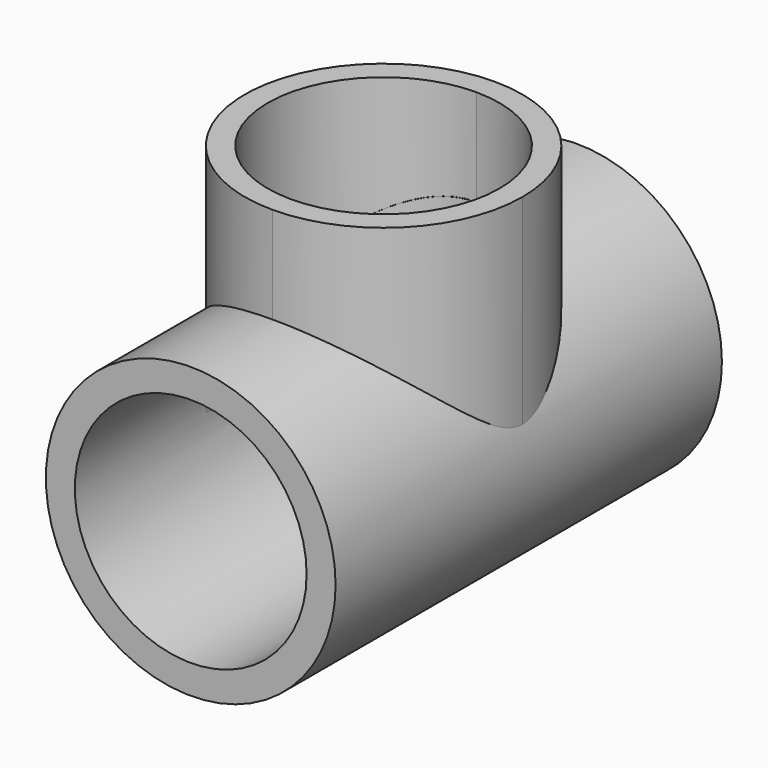
from build123d import *

# Parameters (mm, degrees)
F0_R     = 30.48
F0_R_2   = 24.384
F1_DEPTH = 101.6
F3_DEPTH = 50.8
F4_R     = 24.311885
F5_DEPTH = 55.372
F6_R     = 24.369634
F7_DEPTH = 105.664


with BuildPart() as f1:
    # F0 (on Front) → F1 (new body)
    with BuildSketch(Plane.XZ):
        Circle(F0_R)
        Circle(F0_R_2, mode=Mode.SUBTRACT)
    extrude(amount=F1_DEPTH)

    # F2 (on Top) → F3 (join)
    with BuildSketch(Plane.XY):
        with BuildLine():
            ThreePointArc((29.21, -50.873108), (20.654589, -30.218519), (0, -21.663108))
            Line((0, -21.663108), (0, -26.489108))
            ThreePointArc((0, -26.489108), (17.242092, -33.631016), (24.384, -50.873108))
            ThreePointArc((24.384, -50.873108), (17.242092, -68.1152), (0, -75.257108))
            Line((0, -75.257108), (0, -80.083108))
            ThreePointArc((0, -80.083108), (20.654589, -71.527697), (29.21, -50.873108))
        make_face()
        with BuildLine():
            Line((0, -26.489108), (0, -21.663108))
            ThreePointArc((0, -21.663108), (-29.21, -50.873108), (0, -80.083108))
            Line((0, -80.083108), (0, -75.257108))
            ThreePointArc((0, -75.257108), (-24.384, -50.873108), (0, -26.489108))
        make_face()
    extrude(amount=F3_DEPTH)

    # F4 (on face) → F5 (cut)
    with BuildSketch(Plane.XY.offset(50.8)):
        with Locations((0, -50.873108)):
            Circle(F4_R)
    extrude(amount=-F5_DEPTH, mode=Mode.SUBTRACT)

    # F6 (on face) → F7 (cut)
    with BuildSketch(Plane(origin=(0, 0, 0), x_dir=(-1, 0, 0), z_dir=(0, 1, 0))):
        Circle(F6_R)
    extrude(amount=-F7_DEPTH, mode=Mode.SUBTRACT)


solid = f1.part
